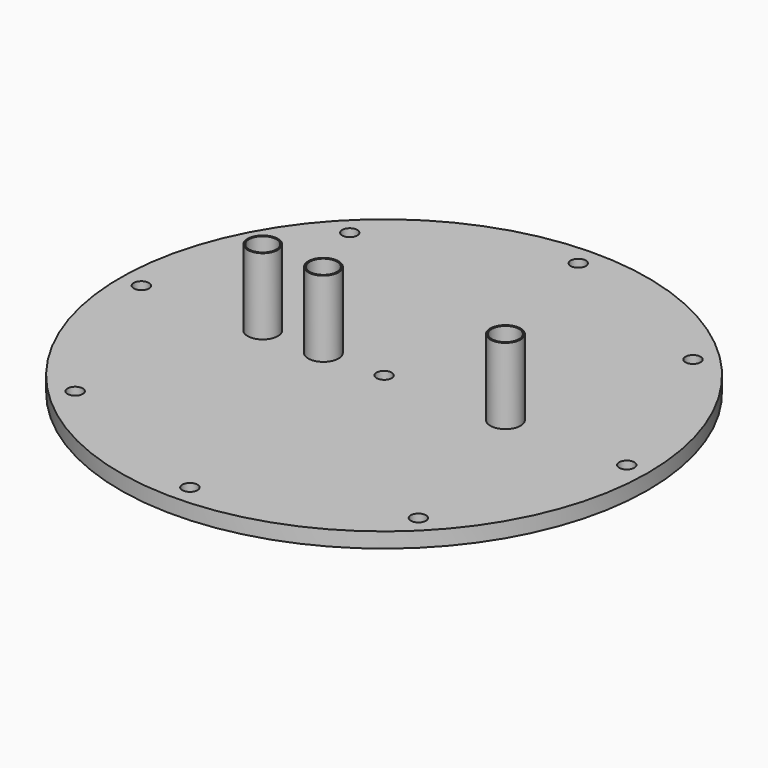
from build123d import *

# Parameters (mm, degrees)
F0_R      = 174
F1_DEPTH  = 10
F2_R      = 5
F3_DEPTH  = 10
F4_R      = 5
F5_DEPTH  = 10
F6_R      = 10
F7_DEPTH  = 50
F9_R      = 9
F8_R      = 9
F10_R     = 9
F11_DEPTH = 60


with BuildPart() as f1:
    # F0 (on Top) → F1 (new body)
    with BuildSketch(Plane.XY):
        Circle(F0_R)
    extrude(amount=F1_DEPTH)

    # F2 (on face) → F3 (cut, through all)
    with BuildSketch(Plane.XY.offset(10)):
        with Locations((0, 160)):
            Circle(F2_R)
        with Locations((-113.137085, 113.137085)):
            Circle(F2_R)
        with Locations((-160, 0)):
            Circle(F2_R)
        with Locations((-113.137085, -113.137085)):
            Circle(F2_R)
        with Locations((0, -160)):
            Circle(F2_R)
        with Locations((113.137085, -113.137085)):
            Circle(F2_R)
        with Locations((160, 0)):
            Circle(F2_R)
        with Locations((113.137085, 113.137085)):
            Circle(F2_R)
    extrude(amount=-F3_DEPTH, mode=Mode.SUBTRACT)

    # F4 (on face) → F5 (cut, through all)
    with BuildSketch(Plane.XY.offset(10)):
        Circle(F4_R)
    extrude(amount=-F5_DEPTH, mode=Mode.SUBTRACT)

    # F6 (on face) → F7 (join)
    with BuildSketch(Plane.XY.offset(10)):
        with Locations((80, 0)):
            Circle(F6_R)
        with Locations((-40, 0)):
            Circle(F6_R)
        with Locations((-80, 0)):
            Circle(F6_R)
    extrude(amount=F7_DEPTH)

    # F9 (on face) + F8 (on face) + F10 (on face) → F11 (cut, through all)
    with BuildSketch(Plane.XY.offset(60)):
        with Locations((-80, 0)):
            Circle(F9_R)
    with BuildSketch(Plane.XY.offset(60)):
        with Locations((-40, 0)):
            Circle(F8_R)
    with BuildSketch(Plane.XY.offset(60)):
        with Locations((80, 0)):
            Circle(F10_R)
    extrude(amount=-F11_DEPTH, mode=Mode.SUBTRACT)


solid = f1.part
